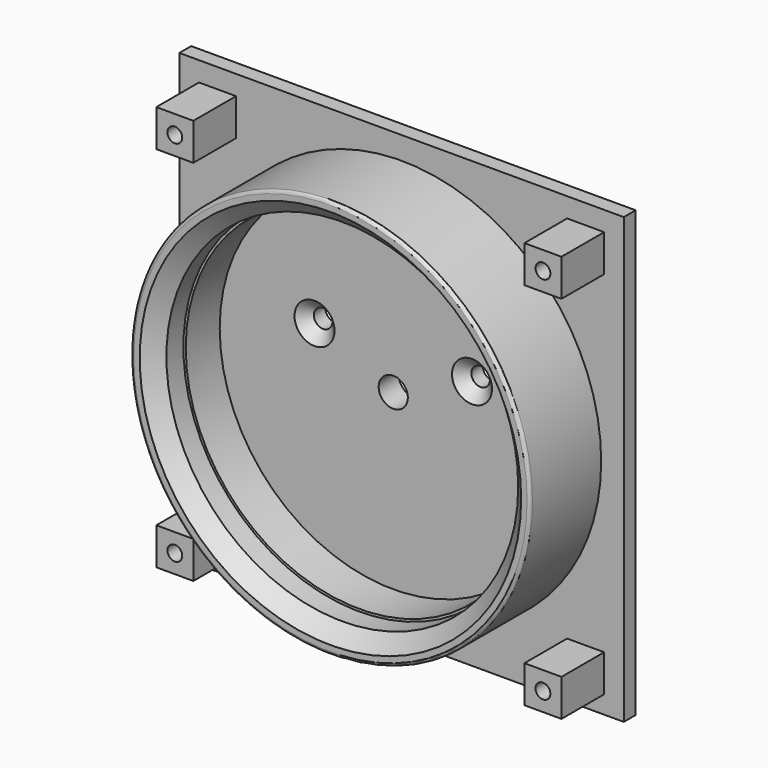
from build123d import *

# Parameters (mm, degrees)
F0_R           = 30.1625
F1_DEPTH       = 4.318
F2_R           = 34.2265
F2_R_2         = 30.1625
F3_DEPTH       = 17.78
F0_W           = 76.2
F0_H           = 76.2
F0_W_2         = 6.35
F0_H_2         = 6.35
F4_DEPTH       = 2.54
F5_DEPTH       = 11.684
F6_D           = 2.54
F7_D           = 5
F9_D           = 3.175
F9_CSINK_D     = 6.858
F9_CSINK_ANGLE = 90
F10_SIZE       = 2.54
F11_R          = 0.508
F12_R          = 30.1625
F12_R_2        = 29.7565
F13_DEPTH      = 11.6


with BuildPart() as f1:
    # F0 (on Front) → F1 (new body)
    with BuildSketch(Plane.XZ):
        Circle(F0_R)
    extrude(amount=F1_DEPTH)

    # F2 (on Front) → F3 (join)
    with BuildSketch(Plane.XZ):
        Circle(F2_R)
        Circle(F2_R_2, mode=Mode.SUBTRACT)
    extrude(amount=F3_DEPTH)

    # F0 (on Front) → F4 (join)
    with BuildSketch(Plane.XZ):
        Rectangle(F0_W, F0_H)
        with Locations((-31.5595, -31.5595)):
            Rectangle(F0_W_2, F0_H_2, mode=Mode.SUBTRACT)
        with Locations((31.5595, -31.8507122787)):
            Rectangle(F0_W_2, F0_H_2, mode=Mode.SUBTRACT)
        with Locations((-31.5595, 31.5595)):
            Rectangle(F0_W_2, F0_H_2, mode=Mode.SUBTRACT)
        Circle(F0_R, mode=Mode.SUBTRACT)
        with Locations((31.5595, 31.5595)):
            Rectangle(F0_W_2, F0_H_2, mode=Mode.SUBTRACT)
    extrude(amount=F4_DEPTH)

    # F0 (on Front) → F5 (join)
    with BuildSketch(Plane.XZ):
        with Locations((-31.5595, -31.5595)):
            Rectangle(F0_W_2, F0_H_2)
        with Locations((-31.5595, 31.5595)):
            Rectangle(F0_W_2, F0_H_2)
        with Locations((31.5595, 31.5595)):
            Rectangle(F0_W_2, F0_H_2)
        with Locations((31.5595, -31.8507122787)):
            Rectangle(F0_W_2, F0_H_2)
    extrude(amount=F5_DEPTH)

    # F6 (through all)
    with Locations(Plane(origin=(0, 0, 0), x_dir=(1, 0, 0), z_dir=(0, 1, 0))):
        with Locations((-31.5595, -31.5595), (31.5595, -31.5595), (-31.5595, 31.5595), (31.5595, 31.8507122787)):
            Hole(F6_D / 2)

    # F7 (through all)
    with Locations(Plane(origin=(0, 0, 0), x_dir=(1, 0, 0), z_dir=(0, 1, 0))):
        with Locations((0, 0)):
            Hole(F7_D / 2)

    # F9 (through all)
    with Locations(Plane.XZ.offset(4.318)):
        with Locations((-13.5, 6), (13.5, 6)):
            CounterSinkHole(F9_D / 2, F9_CSINK_D / 2, counter_sink_angle=F9_CSINK_ANGLE)

    # F10
    f10_edges = [f1.edges().sort_by_distance(p)[0] for p in [
        (-30.1625, -17.78, 0),
    ]]
    chamfer(f10_edges, length=F10_SIZE)

    # F11
    f11_edges = [f1.edges().sort_by_distance(p)[0] for p in [
        (-34.2265, -17.78, 0),
    ]]
    fillet(f11_edges, radius=F11_R)

    # F12 (on Front) → F13 (join)
    with BuildSketch(Plane.XZ):
        Circle(F12_R)
        Circle(F12_R_2, mode=Mode.SUBTRACT)
    extrude(amount=F13_DEPTH)


solid = f1.part
